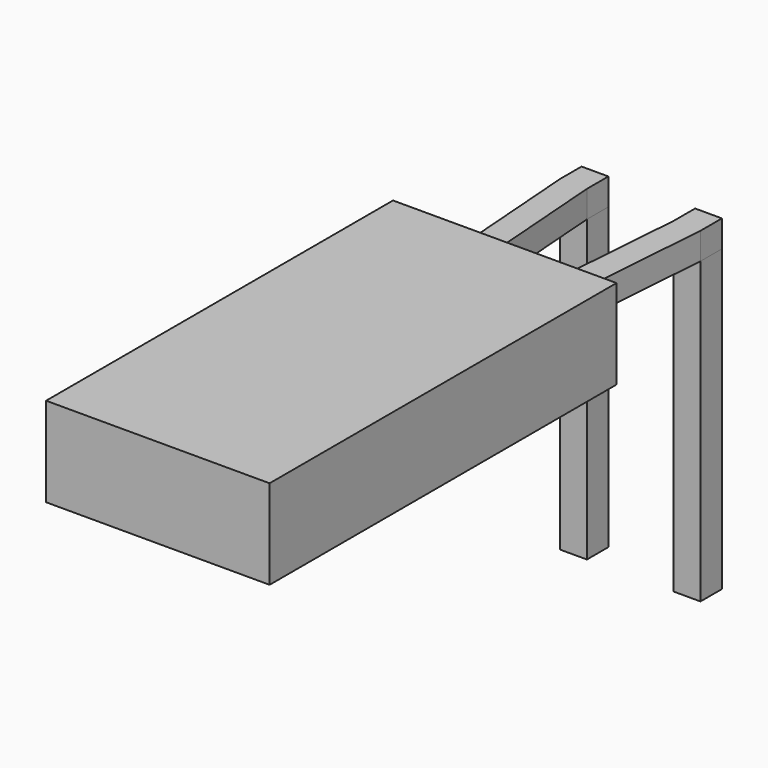
from build123d import *

# Parameters (mm, degrees)
SKETCH_W       = 0.6
SKETCH_H       = 0.6
PAD_DEPTH      = 4.7
PAD_DEPTH_BACK = 2
PAD001_DEPTH   = 0.6
SKETCH002_W    = 2.54
SKETCH002_H    = 0.6
PAD002_DEPTH   = 1
SKETCH004_W    = 5
SKETCH004_H    = 2
PAD003_DEPTH   = 9.7


with BuildPart() as pad:
    # Sketch → Pad (new body, two sides)
    with BuildSketch(Plane.XY) as pad_sk:
        Rectangle(SKETCH_W, SKETCH_H)
        with Locations((2.54, 0)):
            Rectangle(SKETCH_W, SKETCH_H)
    extrude(amount=PAD_DEPTH)
    extrude(pad_sk.sketch, amount=-PAD_DEPTH_BACK)


with BuildPart() as pad001:
    # Sketch001 → Pad001 (new body)
    with BuildSketch(Plane.XY.offset(4.7)):
        Polygon((0.3, 0.3), (-0.3, 0.3), (-0.3, -0.3), (0, -4.31), (0.6, -4.31), (0.3, -0.3), align=None)
        Polygon((2.84, 0.3), (2.24, 0.3), (2.24, -0.3), (1.94, -4.31), (2.54, -4.31), (2.84, -0.3), align=None)
    extrude(amount=PAD001_DEPTH)


with BuildPart() as pad002:
    # Sketch002 → Pad002 (new body)
    with BuildSketch(Plane.XZ.offset(4.31)):
        with Locations((1.27, 5)):
            Rectangle(SKETCH002_W, SKETCH002_H)
    extrude(amount=PAD002_DEPTH)


with BuildPart() as pad003:
    # Sketch004 → Pad003 (new body)
    with BuildSketch(Plane.XZ.offset(3.81)):
        with Locations((1.27, 5)):
            Rectangle(SKETCH004_W, SKETCH004_H)
    extrude(amount=PAD003_DEPTH)


with BuildPart() as revolution001:
    # Sketch005 → Revolution001 (revolve)
    with BuildSketch(Plane.YZ.offset(1.27)):
        Polygon((-5.01, 5), (-5.51, 5), (-5.51, 5.5), align=None)
    revolve(axis=Axis((1.27, -3.977201, 5), (0, -1, 0)))


solid = Compound([pad.part, pad001.part, pad002.part, pad003.part, revolution001.part])
